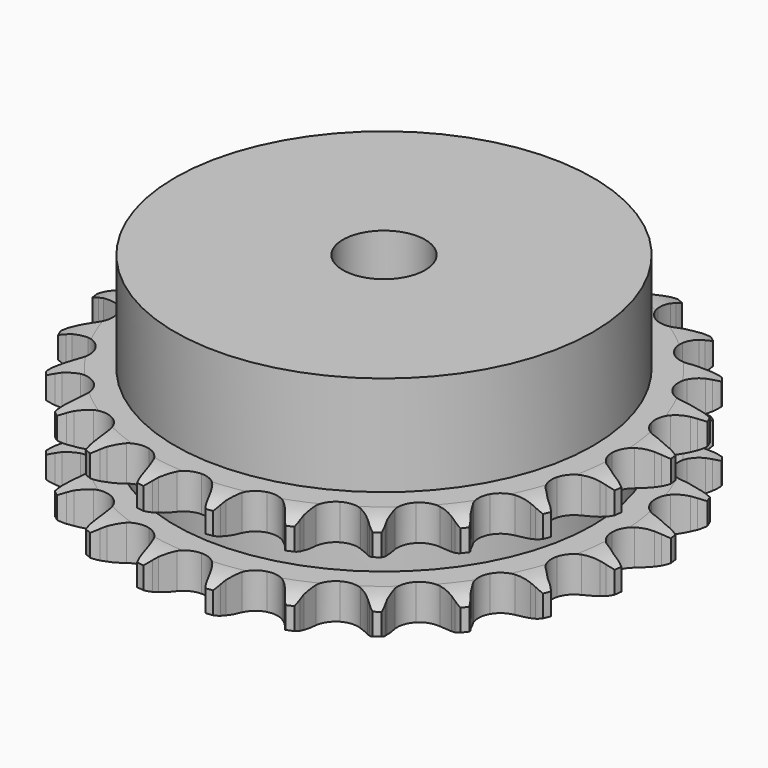
from build123d import *

# Parameters (mm, degrees)
PAD_DEPTH         = 15.4
SKETCH001_R       = 30.5
PAD001_DEPTH      = 30
SKETCH002_R       = 6
POCKET_DEPTH      = 0.001
POCKET_DEPTH_BACK = 30.001


with BuildPart() as part:
    # Sprocket → Pad (new body)
    with BuildSketch(Plane.XY):
        with BuildLine():
            ThreePointArc((-5.133642, 38.993881), (-4.474743, 38.184044), (-3.991056, 37.258825))
            Line((-3.991056, 37.258825), (-3.682734, 36.489264))
            ThreePointArc((-3.682734, 36.489264), (-3.189596, 35.466884), (-2.561718, 34.521254))
            ThreePointArc((-2.561718, 34.521254), (-1.428139, 33.59095), (0, 33.257955))
            ThreePointArc((0, 33.257955), (1.428139, 33.59095), (2.561718, 34.521254))
            ThreePointArc((2.561718, 34.521254), (3.189596, 35.466884), (3.682734, 36.489264))
            Line((3.682734, 36.489264), (3.991056, 37.258825))
            ThreePointArc((3.991056, 37.258825), (4.474743, 38.184044), (5.133642, 38.993881))
            ThreePointArc((5.133642, 38.993881), (5.560488, 38.041103), (5.788229, 37.022223))
            Line((5.788229, 37.022223), (5.886869, 36.199084))
            ThreePointArc((5.886869, 36.199084), (6.098591, 35.083907), (6.460328, 34.007992))
            ThreePointArc((6.460328, 34.007992), (7.314501, 32.815996), (8.607792, 32.124717))
            ThreePointArc((8.607792, 32.124717), (10.073454, 32.076737), (11.409188, 32.68195))
            Line((11.409188, 32.68195), (13.001364, 34.292761))
            ThreePointArc((13.001364, 34.292761), (13.24158, 34.630733), (13.498358, 34.9563))
            ThreePointArc((13.498358, 34.9563), (14.205028, 35.724806), (15.051076, 36.336513))
            ThreePointArc((15.051076, 36.336513), (15.216781, 35.305724), (15.173057, 34.262617))
            Line((15.173057, 34.262617), (15.055291, 33.441997))
            ThreePointArc((15.055291, 33.441997), (14.97117, 32.31002), (15.042114, 31.177142))
            ThreePointArc((15.042114, 31.177142), (15.55867, 29.804686), (16.628977, 28.802234))
            ThreePointArc((16.628977, 28.802234), (18.03228, 28.376547), (19.47914, 28.615424))
            Line((19.47914, 28.615424), (21.433973, 29.759263))
            ThreePointArc((21.433973, 29.759263), (21.753478, 30.023546), (22.085769, 30.271561))
            ThreePointArc((22.085769, 30.271561), (22.967263, 30.830981), (23.942805, 31.202871))
            ThreePointArc((23.942805, 31.202871), (23.836076, 30.164318), (23.523865, 29.168071))
            Line((23.523865, 29.168071), (23.19772, 28.405892))
            ThreePointArc((23.19772, 28.405892), (22.823489, 27.334259), (22.598805, 26.221621))
            ThreePointArc((22.598805, 26.221621), (22.742542, 24.762235), (23.516925, 23.516925))
            ThreePointArc((23.516925, 23.516925), (24.762235, 22.742542), (26.221621, 22.598805))
            Line((26.221621, 22.598805), (28.405892, 23.19772))
            ThreePointArc((28.405892, 23.19772), (28.782911, 23.370304), (29.168071, 23.523865))
            ThreePointArc((29.168071, 23.523865), (30.164318, 23.836076), (31.202871, 23.942805))
            ThreePointArc((31.202871, 23.942805), (30.830981, 22.967263), (30.271561, 22.085769))
            Line((30.271561, 22.085769), (29.759263, 21.433973))
            ThreePointArc((29.759263, 21.433973), (29.120424, 20.495713), (28.615424, 19.47914))
            ThreePointArc((28.615424, 19.47914), (28.376547, 18.03228), (28.802234, 16.628977))
            ThreePointArc((28.802234, 16.628977), (29.804686, 15.55867), (31.177142, 15.042114))
            Line((31.177142, 15.042114), (33.441997, 15.055291))
            ThreePointArc((33.441997, 15.055291), (33.850837, 15.124415), (34.262617, 15.173057))
            ThreePointArc((34.262617, 15.173057), (35.305724, 15.216781), (36.336513, 15.051076))
            ThreePointArc((36.336513, 15.051076), (35.724806, 14.205028), (34.9563, 13.498358))
            Line((34.9563, 13.498358), (34.292761, 13.001364))
            ThreePointArc((34.292761, 13.001364), (33.432851, 12.260418), (32.68195, 11.409188))
            ThreePointArc((32.68195, 11.409188), (32.076737, 10.073454), (32.124717, 8.607792))
            ThreePointArc((32.124717, 8.607792), (32.815996, 7.314501), (34.007992, 6.460328))
            Line((34.007992, 6.460328), (36.199084, 5.886869))
            ThreePointArc((36.199084, 5.886869), (36.611884, 5.847821), (37.022223, 5.788229))
            ThreePointArc((37.022223, 5.788229), (38.041103, 5.560488), (38.993881, 5.133642))
            ThreePointArc((38.993881, 5.133642), (38.184044, 4.474743), (37.258825, 3.991056))
            Line((37.258825, 3.991056), (36.489264, 3.682734))
            ThreePointArc((36.489264, 3.682734), (35.466884, 3.189596), (34.521254, 2.561718))
            ThreePointArc((34.521254, 2.561718), (33.59095, 1.428139), (33.257955, 0))
            ThreePointArc((33.257955, 0), (33.59095, -1.428139), (34.521254, -2.561718))
            Line((34.521254, -2.561718), (36.489264, -3.682734))
            ThreePointArc((36.489264, -3.682734), (36.877892, -3.827291), (37.258825, -3.991056))
            ThreePointArc((37.258825, -3.991056), (38.184044, -4.474743), (38.993881, -5.133642))
            ThreePointArc((38.993881, -5.133642), (38.041103, -5.560488), (37.022223, -5.788229))
            Line((37.022223, -5.788229), (36.199084, -5.886869))
            ThreePointArc((36.199084, -5.886869), (35.083907, -6.098591), (34.007992, -6.460328))
            ThreePointArc((34.007992, -6.460328), (32.815996, -7.314501), (32.124717, -8.607792))
            ThreePointArc((32.124717, -8.607792), (32.076737, -10.073454), (32.68195, -11.409188))
            Line((32.68195, -11.409188), (34.292761, -13.001364))
            ThreePointArc((34.292761, -13.001364), (34.630733, -13.24158), (34.9563, -13.498358))
            ThreePointArc((34.9563, -13.498358), (35.724806, -14.205028), (36.336513, -15.051076))
            ThreePointArc((36.336513, -15.051076), (35.305724, -15.216781), (34.262617, -15.173057))
            Line((34.262617, -15.173057), (33.441997, -15.055291))
            ThreePointArc((33.441997, -15.055291), (32.31002, -14.97117), (31.177142, -15.042114))
            ThreePointArc((31.177142, -15.042114), (29.804686, -15.55867), (28.802234, -16.628977))
            ThreePointArc((28.802234, -16.628977), (28.376547, -18.03228), (28.615424, -19.47914))
            Line((28.615424, -19.47914), (29.759263, -21.433973))
            ThreePointArc((29.759263, -21.433973), (30.023546, -21.753478), (30.271561, -22.085769))
            ThreePointArc((30.271561, -22.085769), (30.830981, -22.967263), (31.202871, -23.942805))
            ThreePointArc((31.202871, -23.942805), (30.164318, -23.836076), (29.168071, -23.523865))
            Line((29.168071, -23.523865), (28.405892, -23.19772))
            ThreePointArc((28.405892, -23.19772), (27.334259, -22.823489), (26.221621, -22.598805))
            ThreePointArc((26.221621, -22.598805), (24.762235, -22.742542), (23.516925, -23.516925))
            ThreePointArc((23.516925, -23.516925), (22.742542, -24.762235), (22.598805, -26.221621))
            Line((22.598805, -26.221621), (23.19772, -28.405892))
            ThreePointArc((23.19772, -28.405892), (23.370304, -28.782911), (23.523865, -29.168071))
            ThreePointArc((23.523865, -29.168071), (23.836076, -30.164318), (23.942805, -31.202871))
            ThreePointArc((23.942805, -31.202871), (22.967263, -30.830981), (22.085769, -30.271561))
            Line((22.085769, -30.271561), (21.433973, -29.759263))
            ThreePointArc((21.433973, -29.759263), (20.495713, -29.120424), (19.47914, -28.615424))
            ThreePointArc((19.47914, -28.615424), (18.03228, -28.376547), (16.628977, -28.802234))
            ThreePointArc((16.628977, -28.802234), (15.55867, -29.804686), (15.042114, -31.177142))
            Line((15.042114, -31.177142), (15.055291, -33.441997))
            ThreePointArc((15.055291, -33.441997), (15.124415, -33.850837), (15.173057, -34.262617))
            ThreePointArc((15.173057, -34.262617), (15.216781, -35.305724), (15.051076, -36.336513))
            ThreePointArc((15.051076, -36.336513), (14.205028, -35.724806), (13.498358, -34.9563))
            Line((13.498358, -34.9563), (13.001364, -34.292761))
            ThreePointArc((13.001364, -34.292761), (12.260418, -33.432851), (11.409188, -32.68195))
            ThreePointArc((11.409188, -32.68195), (10.073454, -32.076737), (8.607792, -32.124717))
            ThreePointArc((8.607792, -32.124717), (7.314501, -32.815996), (6.460328, -34.007992))
            Line((6.460328, -34.007992), (5.886869, -36.199084))
            ThreePointArc((5.886869, -36.199084), (5.847821, -36.611884), (5.788229, -37.022223))
            ThreePointArc((5.788229, -37.022223), (5.560488, -38.041103), (5.133642, -38.993881))
            ThreePointArc((5.133642, -38.993881), (4.474743, -38.184044), (3.991056, -37.258825))
            Line((3.991056, -37.258825), (3.682734, -36.489264))
            ThreePointArc((3.682734, -36.489264), (3.189596, -35.466884), (2.561718, -34.521254))
            ThreePointArc((2.561718, -34.521254), (1.428139, -33.59095), (0, -33.257955))
            ThreePointArc((0, -33.257955), (-1.428139, -33.59095), (-2.561718, -34.521254))
            Line((-2.561718, -34.521254), (-3.682734, -36.489264))
            ThreePointArc((-3.682734, -36.489264), (-3.827291, -36.877892), (-3.991056, -37.258825))
            ThreePointArc((-3.991056, -37.258825), (-4.474743, -38.184044), (-5.133642, -38.993881))
            ThreePointArc((-5.133642, -38.993881), (-5.560488, -38.041103), (-5.788229, -37.022223))
            Line((-5.788229, -37.022223), (-5.886869, -36.199084))
            ThreePointArc((-5.886869, -36.199084), (-6.098591, -35.083907), (-6.460328, -34.007992))
            ThreePointArc((-6.460328, -34.007992), (-7.314501, -32.815996), (-8.607792, -32.124717))
            ThreePointArc((-8.607792, -32.124717), (-10.073454, -32.076737), (-11.409188, -32.68195))
            Line((-11.409188, -32.68195), (-13.001364, -34.292761))
            ThreePointArc((-13.001364, -34.292761), (-13.24158, -34.630733), (-13.498358, -34.9563))
            ThreePointArc((-13.498358, -34.9563), (-14.205028, -35.724806), (-15.051076, -36.336513))
            ThreePointArc((-15.051076, -36.336513), (-15.216781, -35.305724), (-15.173057, -34.262617))
            Line((-15.173057, -34.262617), (-15.055291, -33.441997))
            ThreePointArc((-15.055291, -33.441997), (-14.97117, -32.31002), (-15.042114, -31.177142))
            ThreePointArc((-15.042114, -31.177142), (-15.55867, -29.804686), (-16.628977, -28.802234))
            ThreePointArc((-16.628977, -28.802234), (-18.03228, -28.376547), (-19.47914, -28.615424))
            Line((-19.47914, -28.615424), (-21.433973, -29.759263))
            ThreePointArc((-21.433973, -29.759263), (-21.753478, -30.023546), (-22.085769, -30.271561))
            ThreePointArc((-22.085769, -30.271561), (-22.967263, -30.830981), (-23.942805, -31.202871))
            ThreePointArc((-23.942805, -31.202871), (-23.836076, -30.164318), (-23.523865, -29.168071))
            Line((-23.523865, -29.168071), (-23.19772, -28.405892))
            ThreePointArc((-23.19772, -28.405892), (-22.823489, -27.334259), (-22.598805, -26.221621))
            ThreePointArc((-22.598805, -26.221621), (-22.742542, -24.762235), (-23.516925, -23.516925))
            ThreePointArc((-23.516925, -23.516925), (-24.762235, -22.742542), (-26.221621, -22.598805))
            Line((-26.221621, -22.598805), (-28.405892, -23.19772))
            ThreePointArc((-28.405892, -23.19772), (-28.782911, -23.370304), (-29.168071, -23.523865))
            ThreePointArc((-29.168071, -23.523865), (-30.164318, -23.836076), (-31.202871, -23.942805))
            ThreePointArc((-31.202871, -23.942805), (-30.830981, -22.967263), (-30.271561, -22.085769))
            Line((-30.271561, -22.085769), (-29.759263, -21.433973))
            ThreePointArc((-29.759263, -21.433973), (-29.120424, -20.495713), (-28.615424, -19.47914))
            ThreePointArc((-28.615424, -19.47914), (-28.376547, -18.03228), (-28.802234, -16.628977))
            ThreePointArc((-28.802234, -16.628977), (-29.804686, -15.55867), (-31.177142, -15.042114))
            Line((-31.177142, -15.042114), (-33.441997, -15.055291))
            ThreePointArc((-33.441997, -15.055291), (-33.850837, -15.124415), (-34.262617, -15.173057))
            ThreePointArc((-34.262617, -15.173057), (-35.305724, -15.216781), (-36.336513, -15.051076))
            ThreePointArc((-36.336513, -15.051076), (-35.724806, -14.205028), (-34.9563, -13.498358))
            Line((-34.9563, -13.498358), (-34.292761, -13.001364))
            ThreePointArc((-34.292761, -13.001364), (-33.432851, -12.260418), (-32.68195, -11.409188))
            ThreePointArc((-32.68195, -11.409188), (-32.076737, -10.073454), (-32.124717, -8.607792))
            ThreePointArc((-32.124717, -8.607792), (-32.815996, -7.314501), (-34.007992, -6.460328))
            Line((-34.007992, -6.460328), (-36.199084, -5.886869))
            ThreePointArc((-36.199084, -5.886869), (-36.611884, -5.847821), (-37.022223, -5.788229))
            ThreePointArc((-37.022223, -5.788229), (-38.041103, -5.560488), (-38.993881, -5.133642))
            ThreePointArc((-38.993881, -5.133642), (-38.184044, -4.474743), (-37.258825, -3.991056))
            Line((-37.258825, -3.991056), (-36.489264, -3.682734))
            ThreePointArc((-36.489264, -3.682734), (-35.466884, -3.189596), (-34.521254, -2.561718))
            ThreePointArc((-34.521254, -2.561718), (-33.59095, -1.428139), (-33.257955, 0))
            ThreePointArc((-33.257955, 0), (-33.59095, 1.428139), (-34.521254, 2.561718))
            Line((-34.521254, 2.561718), (-36.489264, 3.682734))
            ThreePointArc((-36.489264, 3.682734), (-36.877892, 3.827291), (-37.258825, 3.991056))
            ThreePointArc((-37.258825, 3.991056), (-38.184044, 4.474743), (-38.993881, 5.133642))
            ThreePointArc((-38.993881, 5.133642), (-38.041103, 5.560488), (-37.022223, 5.788229))
            Line((-37.022223, 5.788229), (-36.199084, 5.886869))
            ThreePointArc((-36.199084, 5.886869), (-35.083907, 6.098591), (-34.007992, 6.460328))
            ThreePointArc((-34.007992, 6.460328), (-32.815996, 7.314501), (-32.124717, 8.607792))
            ThreePointArc((-32.124717, 8.607792), (-32.076737, 10.073454), (-32.68195, 11.409188))
            Line((-32.68195, 11.409188), (-34.292761, 13.001364))
            ThreePointArc((-34.292761, 13.001364), (-34.630733, 13.24158), (-34.9563, 13.498358))
            ThreePointArc((-34.9563, 13.498358), (-35.724806, 14.205028), (-36.336513, 15.051076))
            ThreePointArc((-36.336513, 15.051076), (-35.305724, 15.216781), (-34.262617, 15.173057))
            Line((-34.262617, 15.173057), (-33.441997, 15.055291))
            ThreePointArc((-33.441997, 15.055291), (-32.31002, 14.97117), (-31.177142, 15.042114))
            ThreePointArc((-31.177142, 15.042114), (-29.804686, 15.55867), (-28.802234, 16.628977))
            ThreePointArc((-28.802234, 16.628977), (-28.376547, 18.03228), (-28.615424, 19.47914))
            Line((-28.615424, 19.47914), (-29.759263, 21.433973))
            ThreePointArc((-29.759263, 21.433973), (-30.023546, 21.753478), (-30.271561, 22.085769))
            ThreePointArc((-30.271561, 22.085769), (-30.830981, 22.967263), (-31.202871, 23.942805))
            ThreePointArc((-31.202871, 23.942805), (-30.164318, 23.836076), (-29.168071, 23.523865))
            Line((-29.168071, 23.523865), (-28.405892, 23.19772))
            ThreePointArc((-28.405892, 23.19772), (-27.334259, 22.823489), (-26.221621, 22.598805))
            ThreePointArc((-26.221621, 22.598805), (-24.762235, 22.742542), (-23.516925, 23.516925))
            ThreePointArc((-23.516925, 23.516925), (-22.742542, 24.762235), (-22.598805, 26.221621))
            Line((-22.598805, 26.221621), (-23.19772, 28.405892))
            ThreePointArc((-23.19772, 28.405892), (-23.370304, 28.782911), (-23.523865, 29.168071))
            ThreePointArc((-23.523865, 29.168071), (-23.836076, 30.164318), (-23.942805, 31.202871))
            ThreePointArc((-23.942805, 31.202871), (-22.967263, 30.830981), (-22.085769, 30.271561))
            Line((-22.085769, 30.271561), (-21.433973, 29.759263))
            ThreePointArc((-21.433973, 29.759263), (-20.495713, 29.120424), (-19.47914, 28.615424))
            ThreePointArc((-19.47914, 28.615424), (-18.03228, 28.376547), (-16.628977, 28.802234))
            ThreePointArc((-16.628977, 28.802234), (-15.55867, 29.804686), (-15.042114, 31.177142))
            Line((-15.042114, 31.177142), (-15.055291, 33.441997))
            ThreePointArc((-15.055291, 33.441997), (-15.124415, 33.850837), (-15.173057, 34.262617))
            ThreePointArc((-15.173057, 34.262617), (-15.216781, 35.305724), (-15.051076, 36.336513))
            ThreePointArc((-15.051076, 36.336513), (-14.205028, 35.724806), (-13.498358, 34.9563))
            Line((-13.498358, 34.9563), (-13.001364, 34.292761))
            ThreePointArc((-13.001364, 34.292761), (-12.260418, 33.432851), (-11.409188, 32.68195))
            ThreePointArc((-11.409188, 32.68195), (-10.073454, 32.076737), (-8.607792, 32.124717))
            ThreePointArc((-8.607792, 32.124717), (-7.314501, 32.815996), (-6.460328, 34.007992))
            Line((-6.460328, 34.007992), (-5.886869, 36.199084))
            ThreePointArc((-5.886869, 36.199084), (-5.847821, 36.611884), (-5.788229, 37.022223))
            ThreePointArc((-5.788229, 37.022223), (-5.560488, 38.041103), (-5.133642, 38.993881))
        make_face()
    extrude(amount=PAD_DEPTH)

    # Sketch → Groove (revolve, cut)
    with BuildSketch(Plane.XZ):
        with BuildLine():
            ThreePointArc((34.141101, 0), (36.377169, 0.253206), (38.5, 1))
            Line((38.5, 1), (38.5, 4.2))
            ThreePointArc((38.5, 4.2), (36.377169, 4.946794), (34.141101, 5.2))
            Line((30.5, 5.2), (34.141101, 5.2))
            Line((30.5, 10.2), (30.5, 5.2))
            Line((34.141101, 10.2), (30.5, 10.2))
            ThreePointArc((34.141101, 10.2), (36.377169, 10.453206), (38.5, 11.2))
            Line((38.5, 11.2), (38.5, 14.4))
            ThreePointArc((38.5, 14.4), (36.377169, 15.146794), (34.141101, 15.4))
            Line((34.141101, 15.4), (44.141101, 15.4))
            Line((44.141101, 15.4), (44.141101, 0))
            Line((34.141101, 0), (44.141101, 0))
        make_face()
    revolve(axis=Axis((0, 0, 0), (0, 0, 1)), mode=Mode.SUBTRACT)

    # Sketch001 → Pad001 (join)
    with BuildSketch(Plane.XY):
        Circle(SKETCH001_R)
    extrude(amount=PAD001_DEPTH)

    # Sketch002 → Pocket (cut, two sides)
    with BuildSketch(Plane.XY) as pocket_sk:
        Circle(SKETCH002_R)
    extrude(amount=-POCKET_DEPTH, mode=Mode.SUBTRACT)
    extrude(pocket_sk.sketch, amount=POCKET_DEPTH_BACK, mode=Mode.SUBTRACT)


solid = part.part
